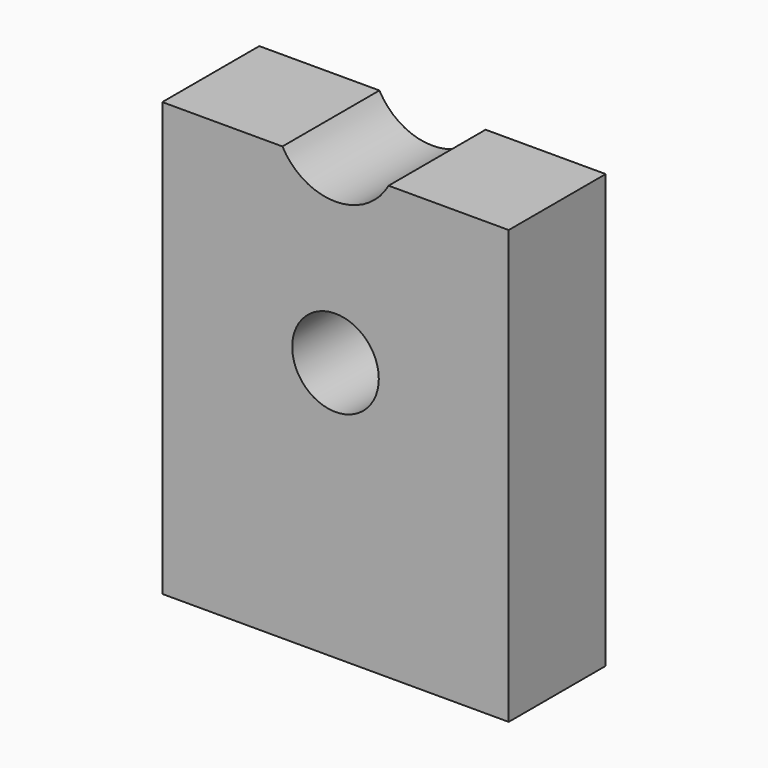
from build123d import *

# Parameters (mm, degrees)
F0_R     = 12.5
F1_DEPTH = 17.5


with BuildPart() as f1:
    # F0 (on Front) → F1 (new body, symmetric)
    with BuildSketch(Plane.XZ):
        with BuildLine():
            Line((-50, 0), (50, 0))
            Line((50, 0), (50, 125))
            Line((50, 125), (15.323588, 125))
            ThreePointArc((15.323588, 125), (0, 115.952079), (-15.323588, 125))
            Line((-15.323588, 125), (-50, 125))
            Line((-50, 125), (-50, 0))
        make_face()
        with Locations((0, 75)):
            Circle(F0_R, mode=Mode.SUBTRACT)
    extrude(amount=F1_DEPTH, both=True)


solid = f1.part
